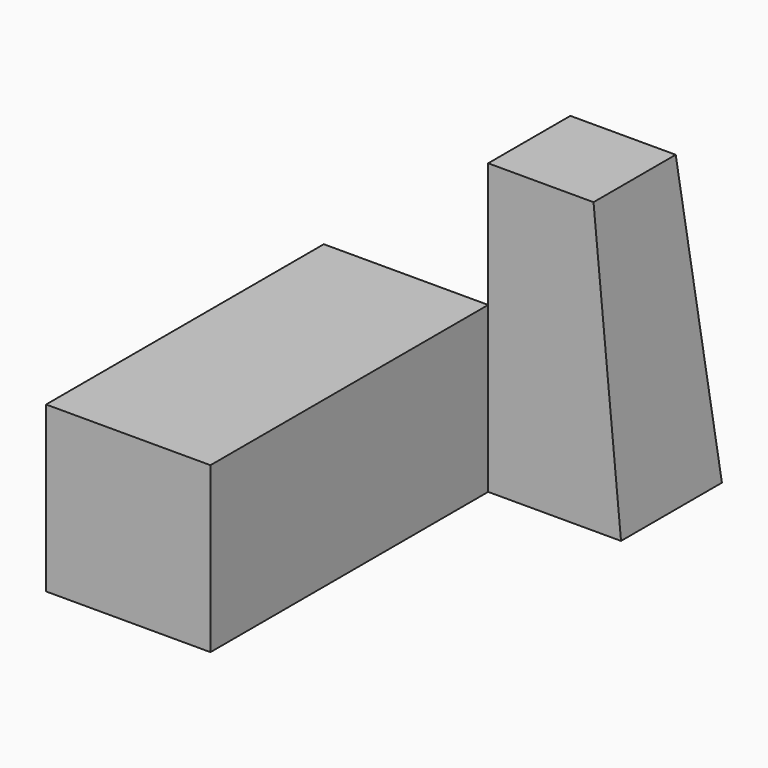
from build123d import *

# Parameters (mm, degrees)
F0_W     = 58.32402
F0_H     = 55.36842
F2_W     = 46.250932
F2_H     = 45.101054
F4_W     = 72.157308
F4_H     = 72.260797
F5_DEPTH = 152.4


with BuildPart() as f3:
    # F0 (on Top) → F3 section 0
    with BuildSketch(Plane.XY):
        with Locations((29.16201, 27.68421)):
            Rectangle(F0_W, F0_H)
    # F2 (on offset) → F3 section 1
    with BuildSketch(Plane.XY.offset(127)):
        with Locations((23.125466, 22.550527)):
            Rectangle(F2_W, F2_H)
    loft()


with BuildPart() as f5:
    # F4 (on Front) → F5 (new body)
    with BuildSketch(Plane.XZ):
        with Locations((-36.078654, 36.130398)):
            Rectangle(F4_W, F4_H)
    extrude(amount=F5_DEPTH)


solid = Compound([f3.part, f5.part])
